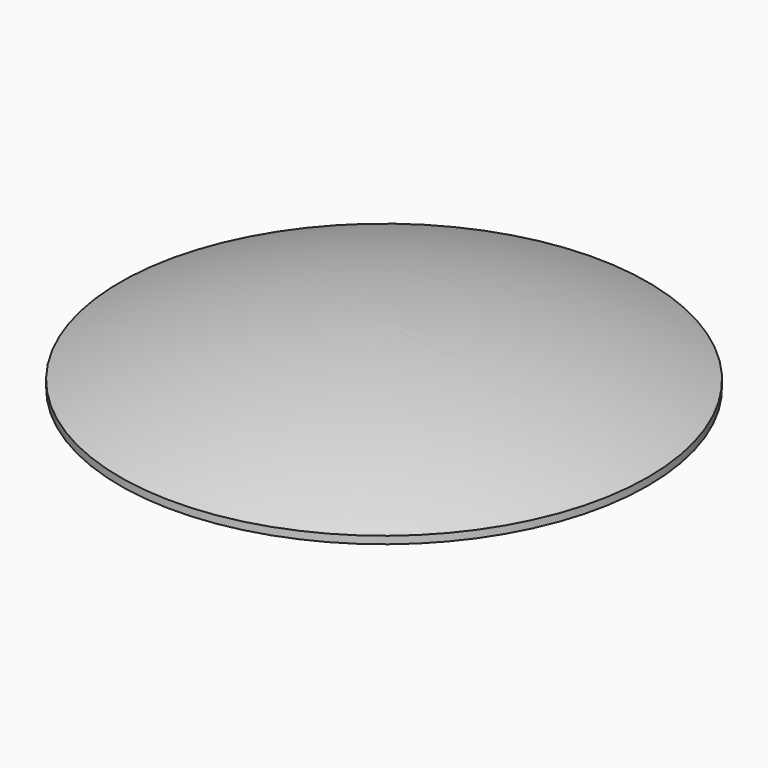
from build123d import *


with BuildPart() as f1:
    # F0 (on Front) → F1 (revolve)
    with BuildSketch(Plane.XZ):
        with BuildLine():
            Line((52.9, -11.136274), (52.9, -9.636274))
            ThreePointArc((52.9, -9.636274), (26.885255, -2.428728), (0, 0))
            Line((0, 0), (0, -11.136274))
            Line((0, -11.136274), (52.9, -11.136274))
        make_face()
    revolve(axis=Axis((0, 0, -5.568137), (0, 0, 1)))


solid = f1.part
